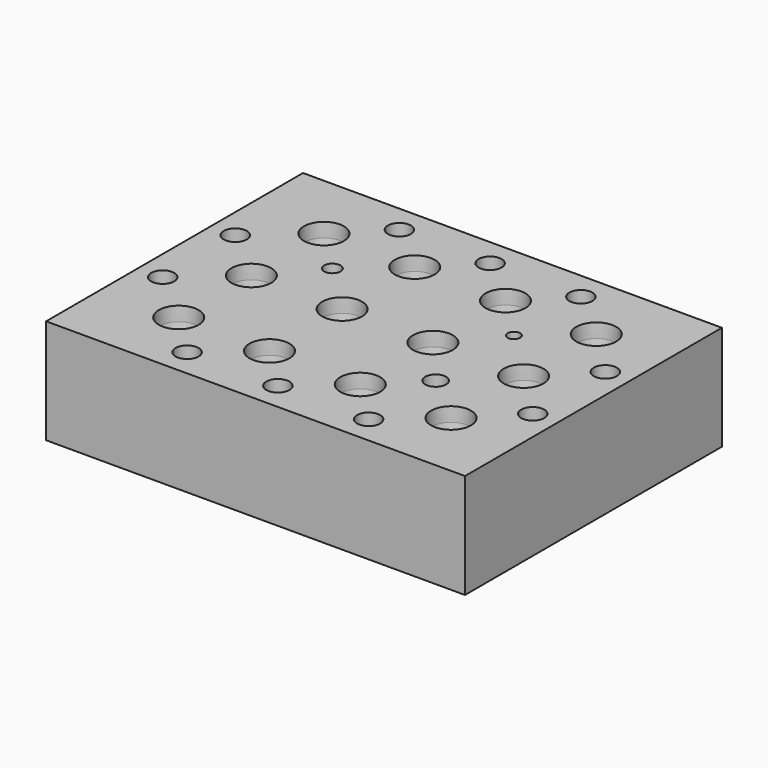
from build123d import *

# Parameters (mm, degrees)
CYLINDER001_R         = 1.65
CYLINDER001_DEPTH     = 30
ARRAY002_X_COUNT      = 2
ARRAY002_X_PITCH      = 13
ARRAY002_Y_COUNT      = 2
ARRAY002_Y_PITCH      = 53
CYLINDER003_R         = 0.9
CYLINDER003_DEPTH     = 10
CYLINDER004_R         = 1.175
CYLINDER004_DEPTH     = 10
CYLINDER005_R         = 1.5
CYLINDER005_DEPTH     = 10
CYLINDER_R            = 1.65
CYLINDER_DEPTH        = 30
ARRAY001_X_COUNT      = 2
ARRAY001_X_PITCH      = 38
ARRAY001_Y_COUNT      = 3
ARRAY001_Y_PITCH      = 13
ARRAY_X_COUNT         = 3
ARRAY_X_PITCH         = 13
ARRAY_Y_COUNT         = 4
ARRAY_Y_PITCH         = 13
BOX_W                 = 46
BOX_H                 = 60
BOX_DEPTH             = 15
CLONE_PLACEMENT_ANGLE = 90


with BuildPart() as array002:
    # Cylinder001 → Cylinder001 (new body)
    with BuildSketch(Plane.XY.offset(-20)):
        Circle(CYLINDER001_R)
    extrude(amount=CYLINDER001_DEPTH)

    # Array002 X: Array002 ×2


with BuildPart() as array002_1:
    add(array002.part)
    with Locations(*[(i * ARRAY002_X_PITCH, 0, 0) for i in range(1, ARRAY002_X_COUNT)]):
        add(array002.part)

    # Array002 Y: Array002 ×2


with BuildPart() as array002_2:
    add(array002_1.part)
    with Locations(*[(0, i * ARRAY002_Y_PITCH, 0) for i in range(1, ARRAY002_Y_COUNT)]):
        add(array002_1.part)


with BuildPart() as array002_3:
    # Array002 placement: moved
    add(array002_2.part.moved(Location((16.5, 3.5, 0))))


with BuildPart() as cylinder003:
    # Cylinder003 → Cylinder003 (new body)
    with BuildSketch(Plane(origin=(30, 17, -9), x_dir=(1, 0, 0), z_dir=(0, 0, 1))):
        Circle(CYLINDER003_R)
    extrude(amount=CYLINDER003_DEPTH)


with BuildPart() as cylinder004:
    # Cylinder004 → Cylinder004 (new body)
    with BuildSketch(Plane(origin=(30, 43, -9), x_dir=(1, 0, 0), z_dir=(0, 0, 1))):
        Circle(CYLINDER004_R)
    extrude(amount=CYLINDER004_DEPTH)


with BuildPart() as cylinder005:
    # Cylinder005 → Cylinder005 (new body)
    with BuildSketch(Plane(origin=(16, 17, -9), x_dir=(1, 0, 0), z_dir=(0, 0, 1))):
        Circle(CYLINDER005_R)
    extrude(amount=CYLINDER005_DEPTH)


with BuildPart() as hole_union:
    # Cylinder → Cylinder (new body)
    with BuildSketch(Plane.XY.offset(-20)):
        Circle(CYLINDER_R)
    extrude(amount=CYLINDER_DEPTH)

    # Array001 X: hole union ×2


with BuildPart() as hole_union_1:
    add(hole_union.part)
    with Locations(*[(i * ARRAY001_X_PITCH, 0, 0) for i in range(1, ARRAY001_X_COUNT)]):
        add(hole_union.part)

    # Array001 Y: hole union ×3


with BuildPart() as hole_union_2:
    add(hole_union_1.part)
    with Locations(*[(0, i * ARRAY001_Y_PITCH, 0) for i in range(1, ARRAY001_Y_COUNT)]):
        add(hole_union_1.part)


with BuildPart() as hole_union_3:
    # Array001 placement: moved
    add(hole_union_2.part.moved(Location((4, 17, 0))))

    # Fusion001: union Array002, Cylinder003, Cylinder004, Cylinder005
    add(array002_3.part)
    add(cylinder003.part)
    add(cylinder004.part)
    add(cylinder005.part)


with BuildPart() as top_cone:
    # Cone → Cone (revolve)
    with BuildSketch(Plane(origin=(0, 0, -7), x_dir=(1, 0, 0), z_dir=(0, -1, 0))):
        Polygon((0, 0), (2.8, 0), (3, 7), (0, 7), align=None)
    revolve(axis=Axis((0, 0, -7), (0, 0, 1)))


with BuildPart() as cone_array:
    # Cone001 → Cone001 (revolve)
    with BuildSketch(Plane(origin=(0, 0, -19), x_dir=(-1, 0, 0), z_dir=(0, 1, 0))):
        Polygon((0, 0), (1.2, 0), (2.8, 12), (0, 12), align=None)
    revolve(axis=Axis((0, 0, -19), (0, 0, 1)))

    # Fusion: union top cone
    add(top_cone.part)


with BuildPart() as cone_array_1:
    # Fusion placement: moved
    add(cone_array.part.moved(Location((0, 0, 5))))

    # Array X: cone array ×3


with BuildPart() as cone_array_2:
    add(cone_array_1.part)
    with Locations(*[(i * ARRAY_X_PITCH, 0, 0) for i in range(1, ARRAY_X_COUNT)]):
        add(cone_array_1.part)

    # Array Y: cone array ×4


with BuildPart() as cone_array_3:
    add(cone_array_2.part)
    with Locations(*[(0, i * ARRAY_Y_PITCH, 0) for i in range(1, ARRAY_Y_COUNT)]):
        add(cone_array_2.part)


with BuildPart() as cone_array_4:
    # Array placement: moved
    add(cone_array_3.part.moved(Location((10, 10, 0))))


with BuildPart() as model_all_cut:
    # Box → Box (new body)
    with BuildSketch(Plane.XY.offset(-15)):
        with Locations((23, 30)):
            Rectangle(BOX_W, BOX_H)
    extrude(amount=BOX_DEPTH)

    # Cut: cut cone array
    add(cone_array_4.part, mode=Mode.SUBTRACT)

    # Cut001: cut hole union
    add(hole_union_3.part, mode=Mode.SUBTRACT)


with BuildPart() as model_all_cut_1:
    # Clone placement: moved
    add(model_all_cut.part.moved(Location((60, 0, 0))).rotate(Axis((60, 0, 0), (0, 0, 1)), CLONE_PLACEMENT_ANGLE))


solid = model_all_cut_1.part
